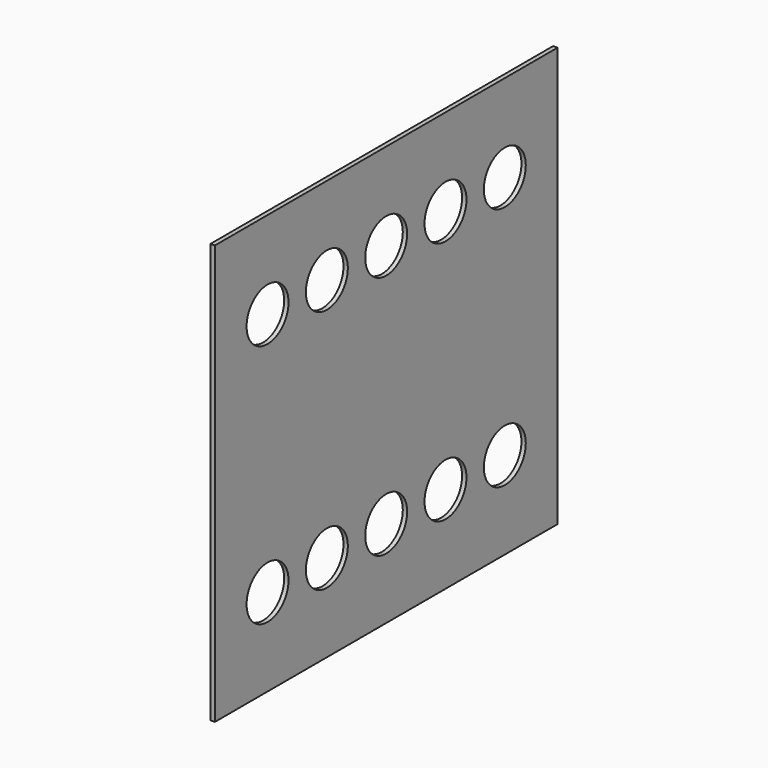
from build123d import *

# Parameters (mm, degrees)
PAD_DEPTH    = 5
SKETCH002_R  = 30
POCKET_DEPTH = 5.001


with BuildPart() as part:
    # Sketch → Pad (new body)
    with BuildSketch(Plane.YZ):
        Polygon((0, 0), (0, 480), (490, 480), (490, 0), (245, 0), align=None)
    extrude(amount=-PAD_DEPTH)

    # Sketch002 (on Face6 of Pad) → Pocket (cut, through all)
    with BuildSketch(Plane.YZ):
        with Locations((245, 380)):
            Circle(SKETCH002_R)
        with Locations((245, 100)):
            Circle(SKETCH002_R)
        with Locations((75.312646, 380)):
            Circle(SKETCH002_R)
        with Locations((75.312646, 100)):
            Circle(SKETCH002_R)
        with Locations((160.156323, 100)):
            Circle(SKETCH002_R)
        with Locations((329.843677, 100)):
            Circle(SKETCH002_R)
        with Locations((414.687354, 100)):
            Circle(SKETCH002_R)
        with Locations((414.687354, 380)):
            Circle(SKETCH002_R)
        with Locations((329.843677, 380)):
            Circle(SKETCH002_R)
        with Locations((160.156323, 380)):
            Circle(SKETCH002_R)
    extrude(amount=-POCKET_DEPTH, mode=Mode.SUBTRACT)


solid = part.part
